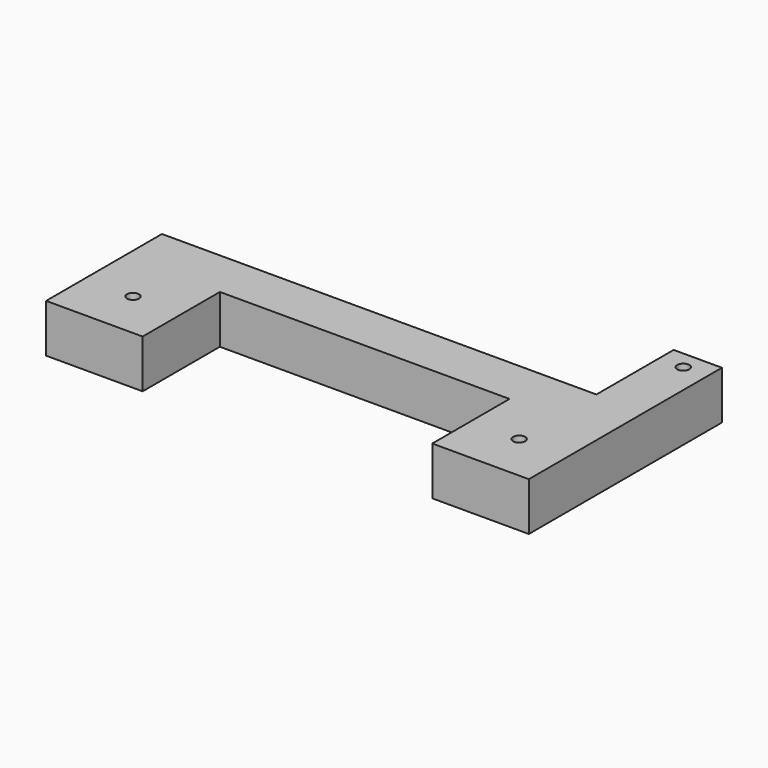
from build123d import *

# Parameters (mm, degrees)
F0_W     = 25.4
F0_H     = 25.4
F0_R     = 1.5875
F1_DEPTH = 12.7


with BuildPart() as f1:
    # F0 (on Top) → F1 (new body)
    with BuildSketch(Plane.XY):
        Polygon((44.45, -6.35), (57.15, -6.35), (57.15, 6.35), (-57.15, 6.35), (-57.15, -6.35), (-31.75, -6.35), (31.75, -6.35), align=None)
        with Locations((-44.45, -19.05)):
            Rectangle(F0_W, F0_H)
        with Locations((-44.45, -19.05)):
            Circle(F0_R, mode=Mode.SUBTRACT)
        Polygon((69.85, -6.35), (57.15, -6.35), (44.45, -6.35), (44.45, -31.75), (69.85, -31.75), align=None)
        with Locations((57.15, -19.05)):
            Circle(F0_R, mode=Mode.SUBTRACT)
        Polygon((57.15, 6.35), (57.15, -6.35), (69.85, -6.35), (69.85, 31.75), (57.15, 31.75), align=None)
        with Locations((63.5, 26.9875)):
            Circle(F0_R, mode=Mode.SUBTRACT)
    extrude(amount=F1_DEPTH)


solid = f1.part
